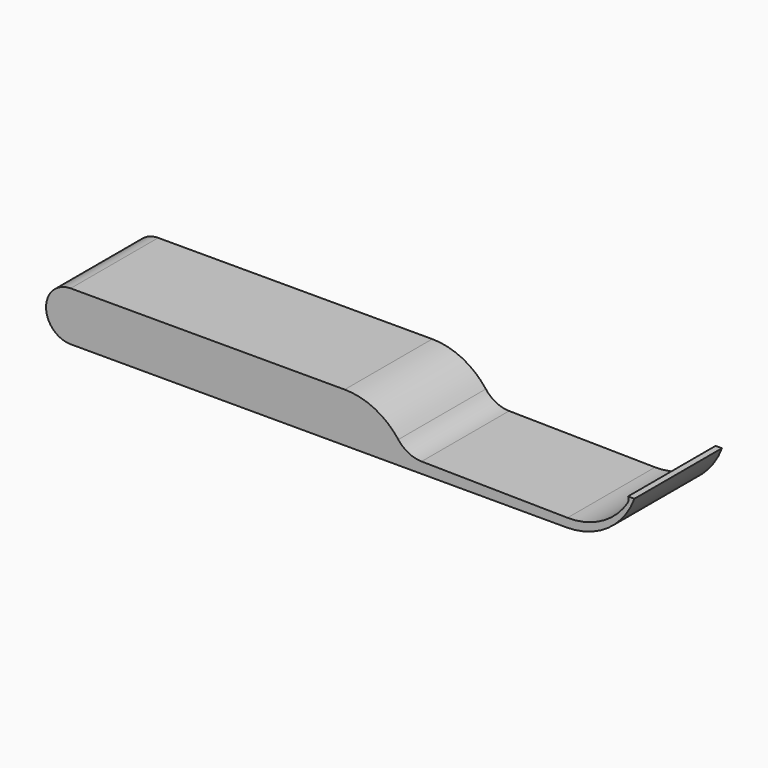
from build123d import *

# Parameters (mm, degrees)
F1_DEPTH = 25.4


with BuildPart() as f1:
    # F0 (on Front) → F1 (new body)
    with BuildSketch(Plane.XZ):
        with BuildLine():
            Line((63.617905, 11.43), (0, 11.43))
            ThreePointArc((0, 11.43), (-5.715, 5.715), (0, 0))
            Line((0, 0), (115.134089, 0))
            ThreePointArc((115.134089, 0), (124.737825, 3.019567), (130.885607, 10.991662))
            Line((130.885607, 10.991662), (129.406797, 10.991662))
            ThreePointArc((129.406797, 10.991662), (129.503326, 10.240098), (129.252724, 9.525))
            ThreePointArc((129.252724, 9.525), (123.271725, 3.98248), (115.350125, 2.048534))
            Line((115.350125, 2.048534), (81.470445, 2.54))
            ThreePointArc((81.470445, 2.54), (78.455958, 3.280218), (76.068628, 5.264081))
            ThreePointArc((76.068628, 5.264081), (70.56483, 9.80408), (63.617905, 11.43))
        make_face()
    extrude(amount=F1_DEPTH)


solid = f1.part
